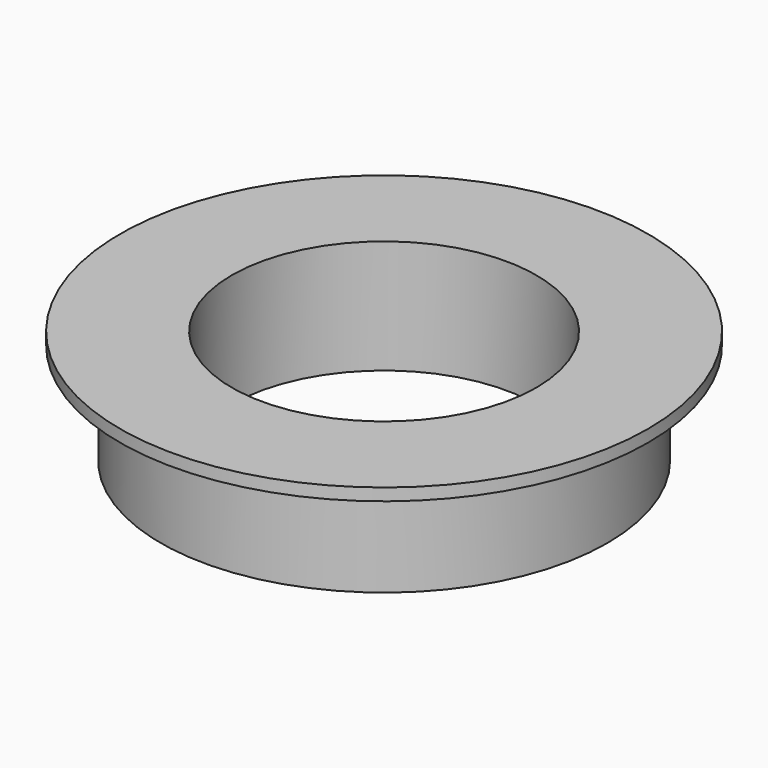
from build123d import *

# Parameters (mm, degrees)
SKETCH_R      = 13
SKETCH_R_2    = 7.5
PAD_DEPTH     = 0.6
SKETCH001_R   = 11
SKETCH001_R_2 = 7.5
PAD001_DEPTH  = 5


with BuildPart() as part:
    # Sketch → Pad (new body)
    with BuildSketch(Plane.XY):
        Circle(SKETCH_R)
        Circle(SKETCH_R_2, mode=Mode.SUBTRACT)
    extrude(amount=PAD_DEPTH)

    # Sketch001 → Pad001 (new body)
    with BuildSketch(Plane(origin=(0, 0, 0), x_dir=(1, 0, 0), z_dir=(0, 0, -1))):
        Circle(SKETCH001_R)
        Circle(SKETCH001_R_2, mode=Mode.SUBTRACT)
    extrude(amount=PAD001_DEPTH)


solid = part.part
